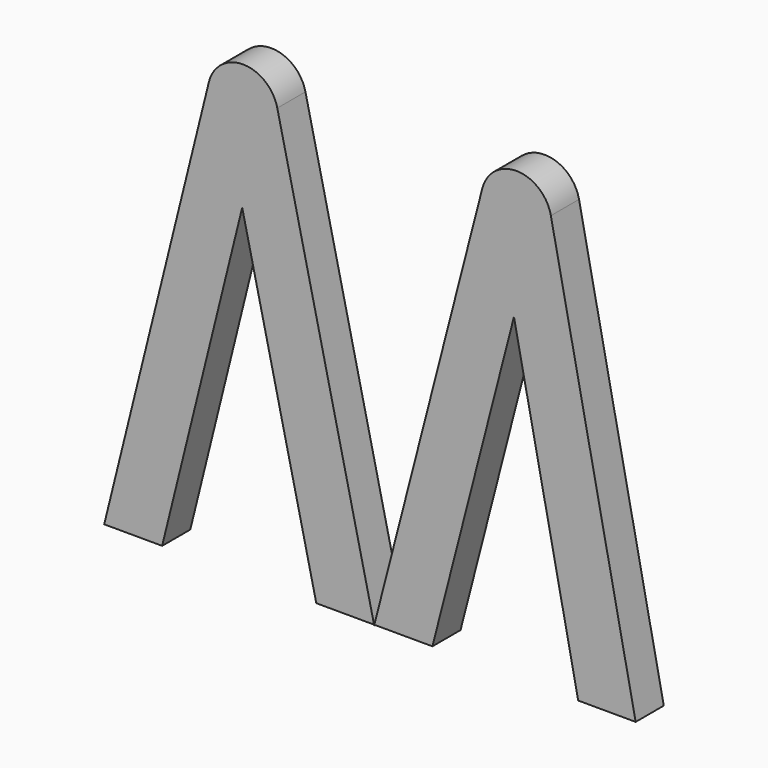
from build123d import *

# Parameters (mm, degrees)
F1_DEPTH = 6.35


with BuildPart() as f1:
    # F0 (on Front) → F1 (new body)
    with BuildSketch(Plane.XZ):
        with BuildLine():
            Line((20.725569, 20.100636), (1.225127, -55.60325))
            Line((1.225127, -55.60325), (11.711065, -55.625442))
            Line((11.711065, -55.625442), (26.432392, 1.525145))
            Line((26.432392, 1.525145), (38.031134, -55.681143))
            Line((38.031134, -55.681143), (48.402313, -55.703092))
            Line((48.402313, -55.703092), (33.098208, 19.778463))
            ThreePointArc((33.098208, 19.778463), (27.04013, 24.864504), (20.725569, 20.100636))
        make_face()
        Polygon((1.225127, -55.60325), (1.176568, -55.603148), (1.19941, -55.703092), align=None)
        with BuildLine():
            Line((-28.642486, 20.920805), (-47.536206, -55.500057))
            Line((-47.536206, -55.500057), (-37.075774, -55.522194))
            Line((-37.075774, -55.522194), (-22.623672, 2.933319))
            Line((-22.623672, 2.933319), (-9.250443, -55.581081))
            Line((-9.250443, -55.581081), (1.176568, -55.603148))
            Line((1.176568, -55.603148), (-16.287702, 20.811553))
            ThreePointArc((-16.287702, 20.811553), (-22.421938, 25.746517), (-28.642486, 20.920805))
        make_face()
    extrude(amount=F1_DEPTH)


solid = f1.part
